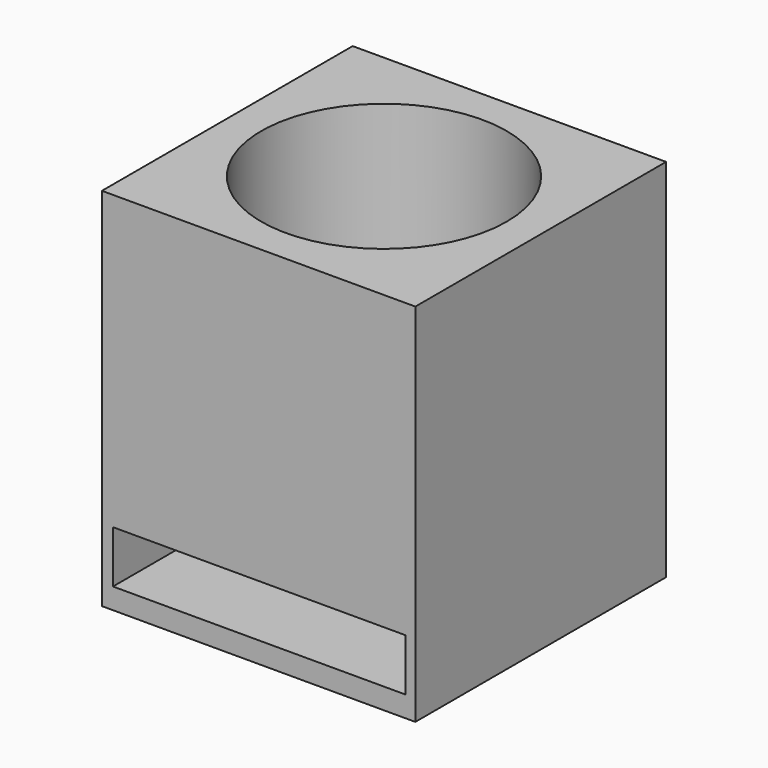
from build123d import *

# Parameters (mm, degrees)
F0_W     = 30
F0_H     = 30
F1_DEPTH = 35
F2_R     = 11.75
F3_DEPTH = 29
F4_W     = 28
F4_H     = 5
F5_DEPTH = 14


with BuildPart() as f1:
    # F0 (on Top) → F1 (new body)
    with BuildSketch(Plane.XY):
        with Locations((13.941668, -72.72828)):
            Rectangle(F0_W, F0_H)
    extrude(amount=F1_DEPTH)

    # F2 (on face) → F3 (cut)
    with BuildSketch(Plane.XY.offset(35)):
        with Locations((13.941668, -72.72828)):
            Circle(F2_R)
    extrude(amount=-F3_DEPTH, mode=Mode.SUBTRACT)

    # F4 (on face) → F5 (cut)
    with BuildSketch(Plane.XZ.offset(87.72828)):
        with Locations((14, 4.5)):
            Rectangle(F4_W, F4_H)
    extrude(amount=-F5_DEPTH, mode=Mode.SUBTRACT)


solid = f1.part
